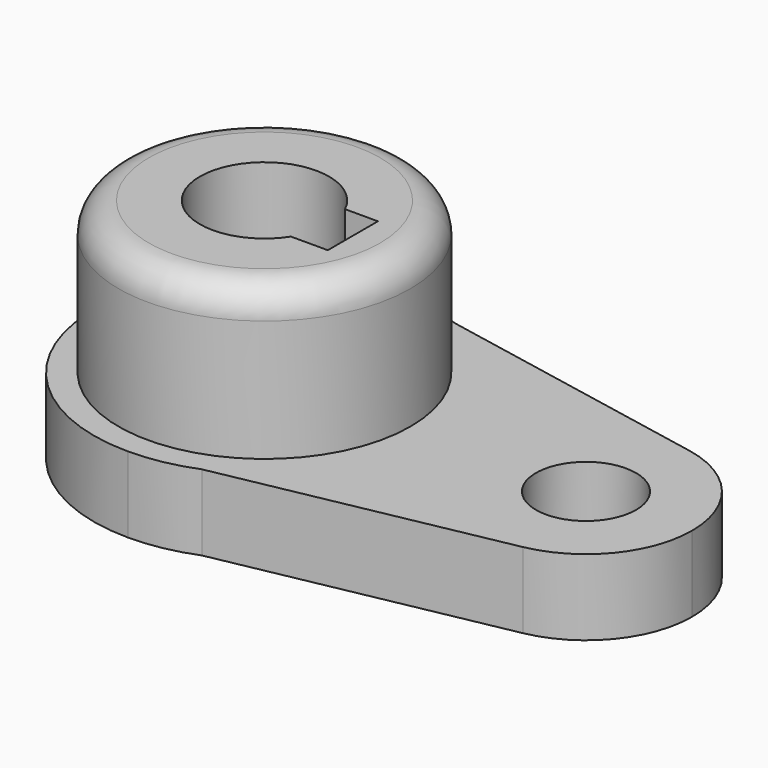
from build123d import *

# Parameters (mm, degrees)
F0_R     = 8.382
F1_DEPTH = 12.7
F2_R     = 24.4449127013
F3_DEPTH = 25.4
F4_R     = 5.08
F6_DEPTH = 38.101


with BuildPart() as f1:
    # F0 (on Top) → F1 (new body)
    with BuildSketch(Plane.XY):
        with BuildLine():
            Line((10.7001249271, 26.4959987837), (0, 28.575))
            ThreePointArc((0, 28.575), (-28.575, 0), (0, -28.575))
            Line((0, -28.575), (10.7001249271, -26.4959987837))
            ThreePointArc((10.7001249271, -26.4959987837), (23.6884644373, -15.9808409542), (28.575, 0))
            ThreePointArc((28.575, 0), (23.6884644373, 15.9808409542), (10.7001249271, 26.4959987837))
        make_face()
        with BuildLine():
            ThreePointArc((10.7001249271, 26.4959987837), (5.4501128317, 28.0504348473), (0, 28.575))
            Line((0, 28.575), (10.7001249271, 26.4959987837))
        make_face()
        with BuildLine():
            Line((10.7001249271, -26.4959987837), (0, -28.575))
            ThreePointArc((0, -28.575), (5.4501128317, -28.0504348473), (10.7001249271, -26.4959987837))
        make_face()
        with BuildLine():
            Line((57.2391813175, 17.453603905), (10.7001249271, 26.4959987837))
            ThreePointArc((10.7001249271, 26.4959987837), (23.6884644373, 15.9808409542), (28.575, 0))
            ThreePointArc((28.575, 0), (23.6884644373, -15.9808409542), (10.7001249271, -26.4959987837))
            Line((10.7001249271, -26.4959987837), (57.2391813175, -17.453603905))
            ThreePointArc((57.2391813175, -17.453603905), (36.068, 0), (57.2391813175, 17.453603905))
        make_face()
        with BuildLine():
            ThreePointArc((71.628, 0), (67.5670306477, 11.3100220198), (57.2391813175, 17.453603905))
            ThreePointArc((57.2391813175, 17.453603905), (36.068, 0), (57.2391813175, -17.453603905))
            ThreePointArc((57.2391813175, -17.453603905), (67.5670306477, -11.3100220198), (71.628, 0))
        make_face()
        with Locations((53.848, 0)):
            Circle(F0_R, mode=Mode.SUBTRACT)
    extrude(amount=F1_DEPTH)

    # F2 (on face) → F3 (join)
    with BuildSketch(Plane.XY.offset(12.7)):
        Circle(F2_R)
    extrude(amount=F3_DEPTH)

    # F4
    f4_edges = [f1.edges().sort_by_distance(p)[0] for p in [
        (-24.444913, 0, 38.1),
    ]]
    fillet(f4_edges, radius=F4_R)

    # F5 (on face) → F6 (cut, through all)
    with BuildSketch(Plane.XY.offset(38.1)):
        with BuildLine():
            ThreePointArc((9.1075219166, -5.8424050607), (10.3833403237, -3.0441576954), (10.8203813405, 0))
            ThreePointArc((10.8203813405, 0), (10.5551078143, 2.3812499619), (9.7722941793, 4.6457420103))
            ThreePointArc((9.7722941793, 4.6457420103), (10.338343211, -0.6552772156), (9.1075219166, -5.8424050607))
        make_face()
        with BuildLine():
            ThreePointArc((9.7722941793, 4.6457420103), (10.5551078143, 2.3812499619), (10.8203813405, 0))
            ThreePointArc((10.8203813405, 0), (10.3833403237, -3.0441576954), (9.1075219166, -5.8424050607))
            Line((9.1075219166, -5.8424050607), (15.2793318605, -5.8424050607))
            Line((15.2793318605, -5.8424050607), (15.2793318605, 4.6457420103))
            Line((15.2793318605, 4.6457420103), (9.7722941793, 4.6457420103))
        make_face()
        with BuildLine():
            ThreePointArc((9.1075219166, -5.8424050607), (10.338343211, -0.6552772156), (9.7722941793, 4.6457420103))
            ThreePointArc((9.7722941793, 4.6457420103), (-10.7987115527, 0.6844568316), (9.1075219166, -5.8424050607))
        make_face()
    extrude(amount=-F6_DEPTH, mode=Mode.SUBTRACT)


solid = f1.part
